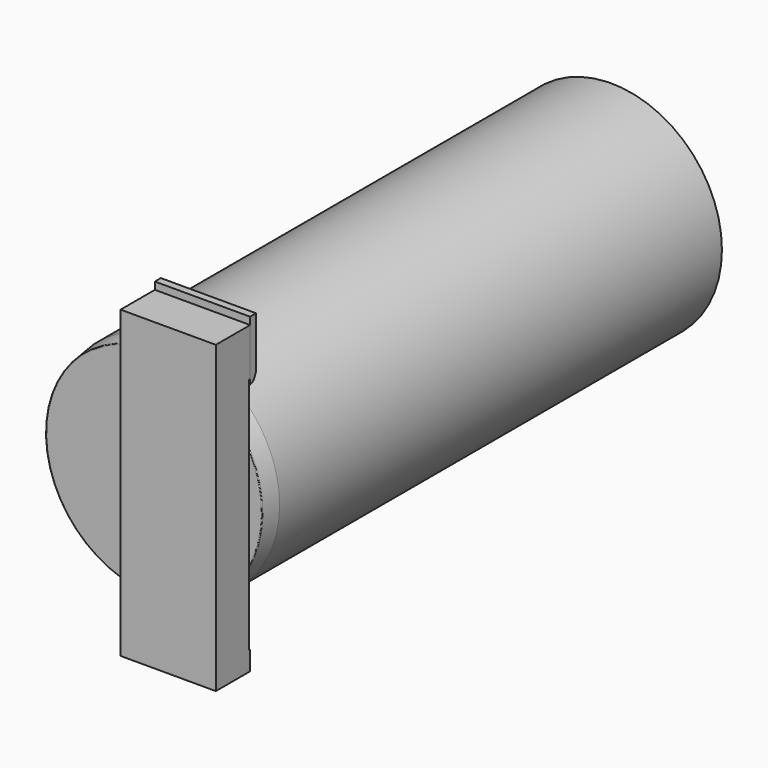
from build123d import *

# Parameters (mm, degrees)
F0_R     = 29.5
F1_DEPTH = 152.4
F5_DEPTH = 25.4
F7_DEPTH = 25.4


with BuildPart() as f1:
    # F0 (on Front) → F1 (new body)
    with BuildSketch(Plane.XZ):
        Circle(F0_R)
    extrude(amount=F1_DEPTH)

    # F2 (on Right) → F3 (revolve, cut)
    with BuildSketch(Plane.YZ):
        with BuildLine():
            Line((-147.4, 29.5), (-152.4, 29.5))
            Line((-152.4, 29.5), (-152.4, 28.67772))
            ThreePointArc((-152.4, 28.67772), (-152.350215, 28.809764), (-152.225645, 28.876069))
            Line((-152.225645, 28.876069), (-147.4, 29.5))
        make_face()
    revolve(axis=Axis((0, -70.144305, 0), (0, 1, 0)), mode=Mode.SUBTRACT)


with BuildPart() as f5:
    # F4 (on Right) → F5 (new body)
    with BuildSketch(Plane.YZ):
        Polygon((-152.1, 42.847586), (-163.528681, 42.847586), (-163.528681, -38.432414), (-152.1, -38.432414), (-152.1, -33.352414), (-152.4, -33.352414), (-152.4, 30.147586), (-152.1, 30.147586), align=None)
    extrude(amount=F5_DEPTH)


with BuildPart() as f7:
    # F6 (on Right) → F7 (new body)
    with BuildSketch(Plane.YZ):
        with BuildLine():
            Line((-152.1, 44.794827), (-152.1, 28.919827))
            ThreePointArc((-152.1, 28.919827), (-151.294051, 29.15474), (-150.740538, 29.7859))
            Line((-150.740538, 29.7859), (-150.1, 31.159539))
            Line((-150.1, 31.159539), (-150.1, 44.794827))
            Line((-150.1, 44.794827), (-152.1, 44.794827))
        make_face()
    extrude(amount=F7_DEPTH)


solid = Compound([f1.part, f5.part, f7.part])
